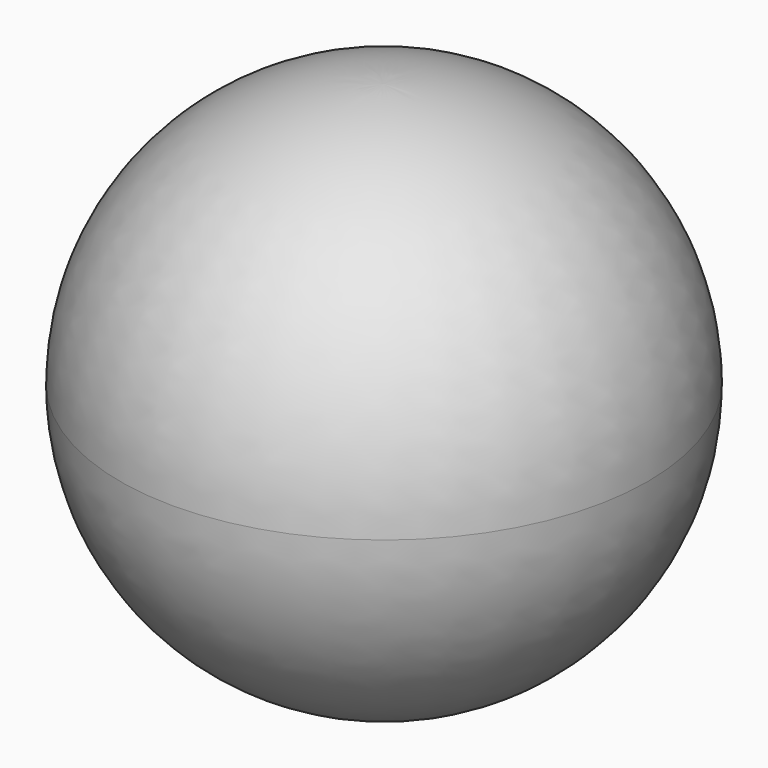
from build123d import *


with BuildPart() as f1:
    # F0 (on Front) → F1 (revolve)
    with BuildSketch(Plane.XZ):
        with BuildLine():
            ThreePointArc((0, -76.2), (53.881537, -53.881537), (76.2, 0))
            ThreePointArc((76.2, 0), (53.881537, 53.881537), (0, 76.2))
            Line((0, 76.2), (0, 69.888178))
            ThreePointArc((0, 69.888178), (49.418404, 49.418404), (69.888178, 0))
            ThreePointArc((69.888178, 0), (49.418404, -49.418404), (0, -69.888178))
            Line((0, -69.888178), (0, -76.2))
        make_face()
    revolve(axis=Axis((0, 0, 0), (0, 0, -1)))


solid = f1.part
